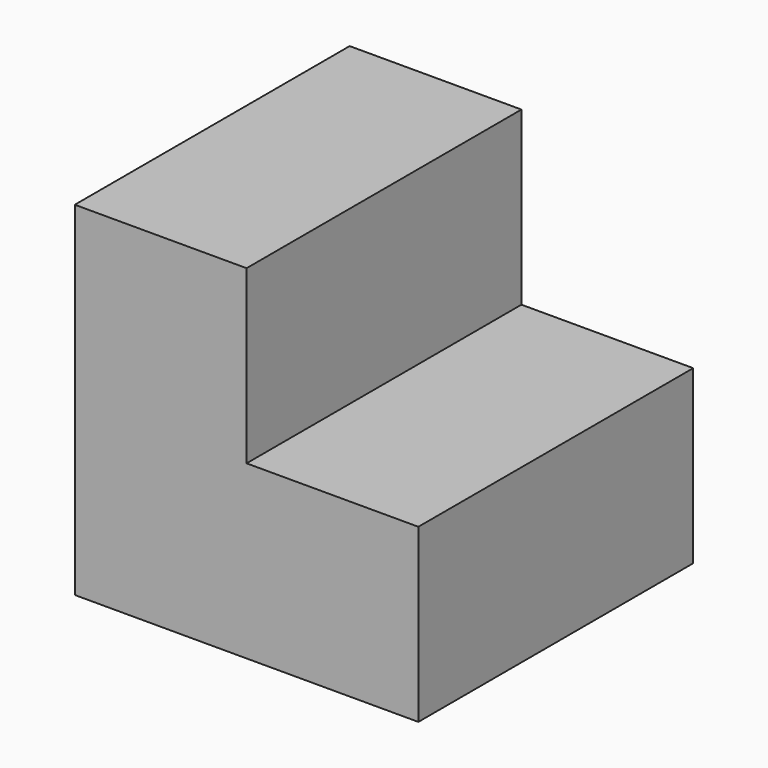
from build123d import *

# Parameters (mm, degrees)
F1_DEPTH      = 25.4
F1_DEPTH_BACK = 25.4


with BuildPart() as f1:
    # F0 (on Front) → F1 (new body, two sides)
    with BuildSketch(Plane.XZ) as f1_sk:
        Polygon((25.4, 0), (0, 0), (0, 25.4), (-25.4, 25.4), (-25.4, -25.4), (25.4, -25.4), align=None)
    extrude(amount=F1_DEPTH)
    extrude(f1_sk.sketch, amount=-F1_DEPTH_BACK)


solid = f1.part
